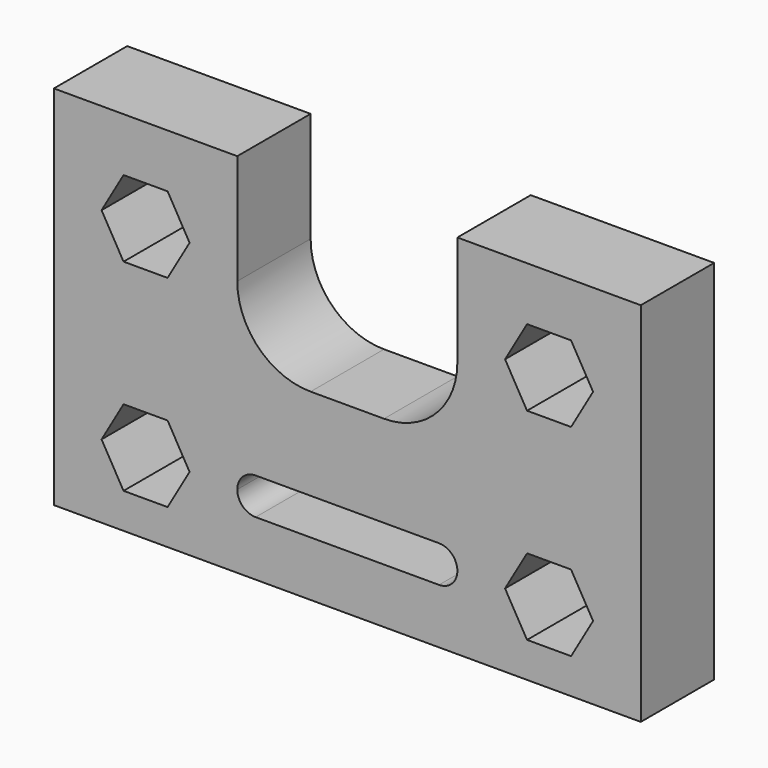
from build123d import *

# Parameters (mm, degrees)
F1_DEPTH = 25


with BuildPart() as f1:
    # F0 (on Front) → F1 (new body)
    with BuildSketch(Plane.XZ):
        with BuildLine():
            Line((-94.7577927953, 36.405579025), (-107.7577927953, 36.405579025))
            Line((-107.7577927953, 36.405579025), (-107.7577927953, -18.594420975))
            Line((-107.7577927953, -18.594420975), (-94.7577927953, -18.594420975))
            Line((-94.7577927953, -18.594420975), (-88.7577927953, -8.2021161296))
            Line((-88.7577927953, -8.2021161296), (-82.7577927953, -8.2021161296))
            Line((-82.7577927953, -8.2021161296), (-76.7577927953, -8.2021161296))
            Line((-76.7577927953, -8.2021161296), (-70.7577927953, -18.594420975))
            Line((-70.7577927953, -18.594420975), (-57.7577927953, -18.594420975))
            ThreePointArc((-57.7577927953, -18.594420975), (-56.2933267013, -15.0588870691), (-52.7577927953, -13.594420975))
            Line((-52.7577927953, -13.594420975), (-2.7577927929, -13.594420975))
            ThreePointArc((-2.7577927929, -13.594420975), (0.7777411115, -15.0588870699), (2.2422072047, -18.594420975))
            Line((2.2422072047, -18.594420975), (15.2422072047, -18.594420975))
            Line((15.2422072047, -18.594420975), (21.2422072047, -8.2021161296))
            Line((21.2422072047, -8.2021161296), (27.2422072047, -8.2021161296))
            Line((27.2422072047, -8.2021161296), (27.2422072047, 0))
            Line((27.2422072047, 0), (27.2422072047, 26.0132741796))
            Line((27.2422072047, 26.0132741796), (21.2422072047, 26.0132741796))
            Line((21.2422072047, 26.0132741796), (15.2422072047, 36.405579025))
            Line((15.2422072047, 36.405579025), (2.2422072047, 36.405579025))
            Line((2.2422072047, 36.405579025), (2.2422072047, 31.405579025))
            ThreePointArc((2.2422072047, 31.405579025), (-3.6156571716, 17.2634434012), (-17.7577927953, 11.405579025))
            Line((-17.7577927953, 11.405579025), (-37.7577927953, 11.405579025))
            ThreePointArc((-37.7577927953, 11.405579025), (-51.899928419, 17.2634434012), (-57.7577927953, 31.405579025))
            Line((-57.7577927953, 31.405579025), (-57.7577927953, 36.405579025))
            Line((-57.7577927953, 36.405579025), (-70.7577927953, 36.405579025))
            Line((-70.7577927953, 36.405579025), (-76.7577927953, 26.0132741796))
            Line((-76.7577927953, 26.0132741796), (-88.7577927953, 26.0132741796))
            Line((-88.7577927953, 26.0132741796), (-94.7577927953, 36.405579025))
        make_face()
        Polygon((-57.7577927953, 61.405579025), (-107.7577927953, 61.405579025), (-107.7577927953, 36.405579025), (-94.7577927953, 36.405579025), (-88.7577927953, 46.7978838704), (-76.7577927953, 46.7978838704), (-70.7577927953, 36.405579025), (-57.7577927953, 36.405579025), align=None)
        Polygon((-94.7577927953, -18.594420975), (-107.7577927953, -18.594420975), (-107.7577927953, -38.594420975), (-82.7577927953, -38.594420975), (-82.7577927953, -28.9867258204), (-88.7577927953, -28.9867258204), align=None)
        with BuildLine():
            Line((-82.7577927953, -28.9867258204), (-82.7577927953, -38.594420975))
            Line((-82.7577927953, -38.594420975), (-52.7577927953, -38.594420975))
            Line((-52.7577927953, -38.594420975), (-2.7577927953, -38.594420975))
            Line((-2.7577927953, -38.594420975), (27.2422072047, -38.594420975))
            Line((27.2422072047, -38.594420975), (27.2422072047, -28.9867258204))
            Line((27.2422072047, -28.9867258204), (21.2422072047, -28.9867258204))
            Line((21.2422072047, -28.9867258204), (15.2422072047, -18.594420975))
            Line((15.2422072047, -18.594420975), (2.2422072047, -18.594420975))
            ThreePointArc((2.2422072047, -18.594420975), (0.7777411106, -22.129954881), (-2.7577927953, -23.594420975))
            Line((-2.7577927953, -23.594420975), (-52.7577927953, -23.594420975))
            ThreePointArc((-52.7577927953, -23.594420975), (-56.2933267013, -22.129954881), (-57.7577927953, -18.594420975))
            Line((-57.7577927953, -18.594420975), (-70.7577927953, -18.594420975))
            Line((-70.7577927953, -18.594420975), (-76.7577927953, -28.9867258204))
            Line((-76.7577927953, -28.9867258204), (-82.7577927953, -28.9867258204))
        make_face()
        Polygon((52.2422072047, -38.594420975), (52.2422072047, -18.594420975), (39.2422072047, -18.594420975), (33.2422072047, -28.9867258204), (27.2422072047, -28.9867258204), (27.2422072047, -38.594420975), align=None)
        Polygon((52.2422072047, -18.594420975), (52.2422072047, 36.405579025), (39.2422072047, 36.405579025), (33.2422072047, 26.0132741796), (27.2422072047, 26.0132741796), (27.2422072047, 0), (27.2422072047, -8.2021161296), (33.2422072047, -8.2021161296), (39.2422072047, -18.594420975), align=None)
        Polygon((2.2422072047, 61.405579025), (2.2422072047, 36.405579025), (15.2422072047, 36.405579025), (21.2422072047, 46.7978838704), (27.2422072047, 46.7978838704), (33.2422072047, 46.7978838704), (39.2422072047, 36.405579025), (52.2422072047, 36.405579025), (52.2422072047, 61.405579025), align=None)
    extrude(amount=F1_DEPTH)


solid = f1.part
